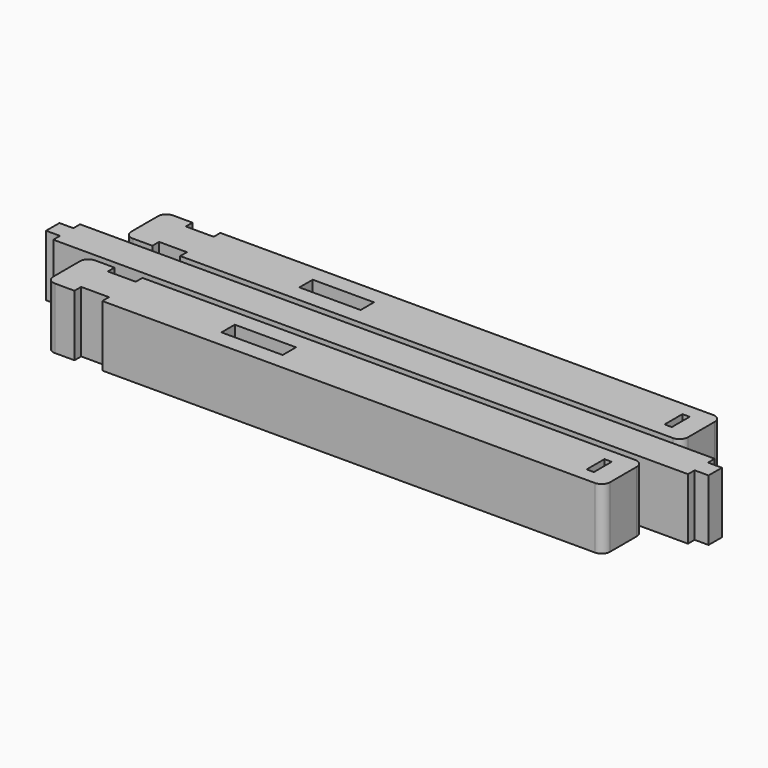
from build123d import *

# Parameters (mm, degrees)
SKETCH006_W     = 200
SKETCH006_H     = 18
PAD004_DEPTH    = 22
SKETCH007_W     = 2.6
SKETCH007_H     = 8
POCKET002_DEPTH = 16
SKETCH008_W     = 22
SKETCH008_H     = 6
POCKET003_DEPTH = 5
SKETCH009_W     = 10
SKETCH009_H     = 3
POCKET004_DEPTH = 22
FILLET_R        = 3
SKETCH010_W     = 200
SKETCH010_H     = 18
PAD005_DEPTH    = 22
SKETCH011_W     = 2.6
SKETCH011_H     = 8
POCKET005_DEPTH = 16
SKETCH012_W     = 22
SKETCH012_H     = 6
POCKET006_DEPTH = 5
SKETCH013_W     = 10
SKETCH013_H     = 3
POCKET007_DEPTH = 22
FILLET001_R     = 3
SKETCH004_W     = 238
SKETCH004_H     = 12
PAD003_DEPTH    = 22
SKETCH005_W     = 5
SKETCH005_H     = 3
POCKET001_DEPTH = 22


with BuildPart() as body004:
    # Sketch006 → Pad004 (new body)
    with BuildSketch(Plane.XY):
        with Locations((0, 17.5)):
            Rectangle(SKETCH006_W, SKETCH006_H)
    extrude(amount=PAD004_DEPTH)

    # Sketch007 (on Face6 of Pad004) → Pocket002 (cut)
    with BuildSketch(Plane.XY.offset(22)):
        with Locations((91.3, 17.5)):
            Rectangle(SKETCH007_W, SKETCH007_H)
    extrude(amount=-POCKET002_DEPTH, mode=Mode.SUBTRACT)

    # Sketch008 (on Face5 of Pocket002) → Pocket003 (cut)
    with BuildSketch(Plane.XY.offset(22)):
        with Locations((-31, 17.5)):
            Rectangle(SKETCH008_W, SKETCH008_H)
    extrude(amount=-POCKET003_DEPTH, mode=Mode.SUBTRACT)

    # Sketch009 (on Face5 of Pocket003) → Pocket004 (cut)
    with BuildSketch(Plane.XY.offset(22)):
        with Locations((-85, 25)):
            Rectangle(SKETCH009_W, SKETCH009_H)
        with Locations((-85, 10)):
            Rectangle(SKETCH009_W, SKETCH009_H)
    extrude(amount=-POCKET004_DEPTH, mode=Mode.SUBTRACT)

    # Fillet
    fillet_edges = [body004.edges().sort_by_distance(p)[0] for p in [
        (-100, 8.5, 11),
        (-100, 26.5, 11),
        (100, 8.5, 11),
        (100, 26.5, 11),
    ]]
    fillet(fillet_edges, radius=FILLET_R)


with BuildPart() as body005:
    # Sketch010 → Pad005 (new body)
    with BuildSketch(Plane.XY):
        with Locations((0, 17.5)):
            Rectangle(SKETCH010_W, SKETCH010_H)
    extrude(amount=PAD005_DEPTH)

    # Sketch011 (on Face6 of Pad005) → Pocket005 (cut)
    with BuildSketch(Plane.XY.offset(22)):
        with Locations((91.3, 17.5)):
            Rectangle(SKETCH011_W, SKETCH011_H)
    extrude(amount=-POCKET005_DEPTH, mode=Mode.SUBTRACT)

    # Sketch012 (on Face5 of Pocket005) → Pocket006 (cut)
    with BuildSketch(Plane.XY.offset(22)):
        with Locations((-31, 17.5)):
            Rectangle(SKETCH012_W, SKETCH012_H)
    extrude(amount=-POCKET006_DEPTH, mode=Mode.SUBTRACT)

    # Sketch013 (on Face5 of Pocket006) → Pocket007 (cut)
    with BuildSketch(Plane.XY.offset(22)):
        with Locations((-85, 25)):
            Rectangle(SKETCH013_W, SKETCH013_H)
        with Locations((-85, 10)):
            Rectangle(SKETCH013_W, SKETCH013_H)
    extrude(amount=-POCKET007_DEPTH, mode=Mode.SUBTRACT)

    # Fillet001
    fillet001_edges = [body005.edges().sort_by_distance(p)[0] for p in [
        (-100, 8.5, 11),
        (-100, 26.5, 11),
        (100, 8.5, 11),
        (100, 26.5, 11),
    ]]
    fillet(fillet001_edges, radius=FILLET001_R)


with BuildPart() as body005_1:
    # Body005 placement: moved
    add(body005.part.moved(Location((0, -35, 0))))


with BuildPart() as fusion001:
    # Sketch004 → Pad003 (new body)
    with BuildSketch(Plane.XY):
        Rectangle(SKETCH004_W, SKETCH004_H)
    extrude(amount=PAD003_DEPTH)

    # Sketch005 (on Face6 of Pad003) → Pocket001 (cut)
    with BuildSketch(Plane.XY.offset(22)):
        with Locations((-116.5, 4.5)):
            Rectangle(SKETCH005_W, SKETCH005_H)
        with Locations((-116.5, -4.5)):
            Rectangle(SKETCH005_W, SKETCH005_H)
        with Locations((116.5, 4.5)):
            Rectangle(SKETCH005_W, SKETCH005_H)
        with Locations((116.5, -4.5)):
            Rectangle(SKETCH005_W, SKETCH005_H)
    extrude(amount=-POCKET001_DEPTH, mode=Mode.SUBTRACT)

    # Fusion001: union Body004, Body005
    add(body004.part)
    add(body005_1.part)


with BuildPart() as fusion001_1:
    # Fusion001 placement: moved
    add(fusion001.part.moved(Location((0, 0, -22))))


solid = fusion001_1.part
